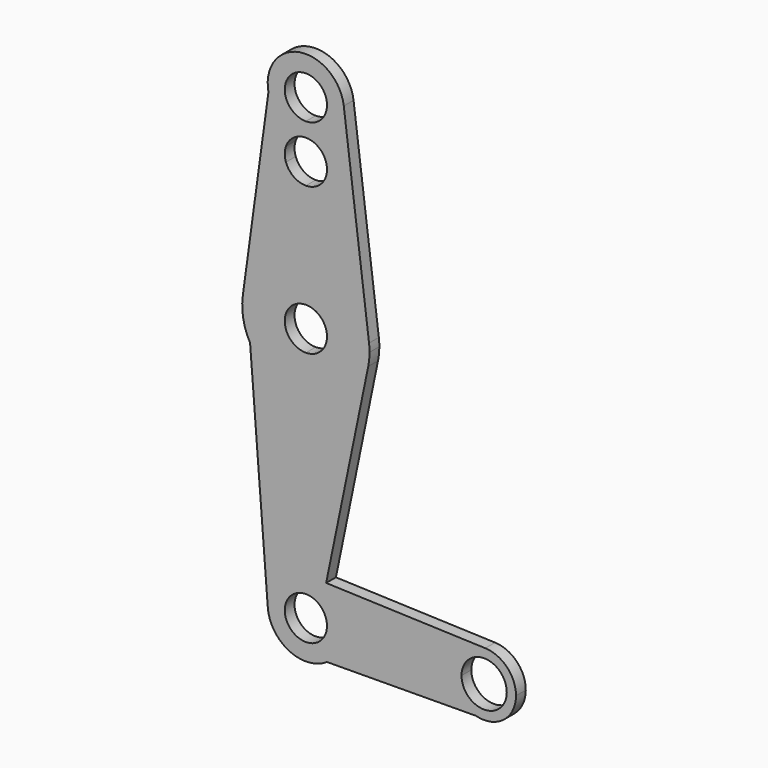
from build123d import *

# Parameters (mm, degrees)
F1_DEPTH = 3.048


with BuildPart() as f1:
    # F0 (on Front) → F1 (new body)
    with BuildSketch(Plane.XZ):
        with BuildLine():
            ThreePointArc((-34.8789583164, 61.9349866176), (-33.852225346, 62.2609772896), (-32.7806348489, 62.3711785475))
            ThreePointArc((-32.7806348489, 62.3711785475), (-31.7090443518, 62.2609772896), (-30.6823113814, 61.9349866176))
            ThreePointArc((-30.6823113814, 61.9349866176), (-25.3404683176, 65.2787554881), (-23.2556348489, 71.2259856826))
            ThreePointArc((-23.2556348489, 71.2259856826), (-23.2743299547, 71.8224689245), (-23.3303418847, 72.4166106826))
            ThreePointArc((-23.3303418847, 72.4166106826), (-34.3203633768, 80.6257123308), (-42.1169034528, 69.3392653651))
            ThreePointArc((-42.1169034528, 69.3392653651), (-39.5918983075, 64.5677340279), (-34.8789583164, 61.9349866176))
        make_face()
        with BuildLine():
            ThreePointArc((-27.5154929942, 71.2259856826), (-29.0576173395, 67.5029681732), (-32.7806348489, 65.9608438279))
            ThreePointArc((-32.7806348489, 65.9608438279), (-36.5036523583, 74.9490031919), (-27.5154929942, 71.2259856826))
        make_face(mode=Mode.SUBTRACT)
        with BuildLine():
            ThreePointArc((-23.2556348489, 71.2259856826), (-25.3404683176, 65.2787554881), (-30.6823113814, 61.9349866176))
            ThreePointArc((-30.6823113814, 61.9349866176), (-28.3778124891, 59.9934012383), (-27.5154929942, 57.1060366929))
            ThreePointArc((-27.5154929942, 57.1060366929), (-29.0576173395, 53.3830191835), (-32.7806348489, 51.8408948382))
            Line((-32.7806348489, 51.8408948382), (-32.7806348489, 36.3009856826))
            ThreePointArc((-32.7806348489, 36.3009856826), (-22.2803093331, 32.3322356826), (-17.0301465752, 22.4103606826))
            Line((-17.0301465752, 22.4103606826), (-23.3303418847, 72.4166106826))
            ThreePointArc((-23.3303418847, 72.4166106826), (-23.2743299547, 71.8224689245), (-23.2556348489, 71.2259856826))
        make_face()
        with BuildLine():
            ThreePointArc((-37.7565250318, 58.8271513425), (-36.6440251628, 60.6831771755), (-34.8789583164, 61.9349866176))
            ThreePointArc((-34.8789583164, 61.9349866176), (-39.5918983075, 64.5677340279), (-42.1169034528, 69.3392653651))
            Line((-42.1169034528, 69.3392653651), (-48.5093579461, 22.5760774787))
            ThreePointArc((-48.5093579461, 22.5760774787), (-43.2181373695, 32.3873470655), (-32.7806348489, 36.3009856826))
            Line((-32.7806348489, 36.3009856826), (-32.7806348489, 51.8408948382))
            ThreePointArc((-32.7806348489, 51.8408948382), (-35.8351238382, 52.8174686609), (-37.7565250318, 55.3849220432))
            ThreePointArc((-37.7565250318, 55.3849220432), (-38.0457767036, 57.1060366929), (-37.7565250318, 58.8271513425))
        make_face()
        with BuildLine():
            ThreePointArc((-17.0301465752, 22.4103606826), (-22.2803093331, 32.3322356826), (-32.7806348489, 36.3009856826))
            Line((-32.7806348489, 36.3009856826), (-32.7806348489, 25.6911275373))
            ThreePointArc((-32.7806348489, 25.6911275373), (-29.0576173395, 24.1490031919), (-27.5154929942, 20.4259856826))
            ThreePointArc((-27.5154929942, 20.4259856826), (-29.0576173395, 16.7029681732), (-32.7806348489, 15.1608438279))
            Line((-32.7806348489, 15.1608438279), (-32.7806348489, 4.5509856826))
            ThreePointArc((-32.7806348489, 4.5509856826), (-22.7514166991, 8.1202793517), (-17.2320851442, 17.2231389673))
            ThreePointArc((-17.2320851442, 17.2231389673), (-16.9874582913, 18.8162654525), (-16.9056348489, 20.4259856826))
            ThreePointArc((-16.9056348489, 20.4259856826), (-16.9367933585, 21.4201244192), (-17.0301465752, 22.4103606826))
        make_face()
        with BuildLine():
            Line((-32.7806348489, 25.6911275373), (-32.7806348489, 36.3009856826))
            ThreePointArc((-32.7806348489, 36.3009856826), (-43.2181373695, 32.3873470655), (-48.5093579461, 22.5760774787))
            ThreePointArc((-48.5093579461, 22.5760774787), (-48.3889761782, 17.5285202473), (-46.6897521382, 12.7740525129))
            ThreePointArc((-46.6897521382, 12.7740525129), (-40.8596566316, 6.7605170834), (-32.7806348489, 4.5509856826))
            Line((-32.7806348489, 4.5509856826), (-32.7806348489, 15.1608438279))
            ThreePointArc((-32.7806348489, 15.1608438279), (-38.0457767036, 20.4259856826), (-32.7806348489, 25.6911275373))
        make_face()
        with BuildLine():
            ThreePointArc((-32.7806348489, 4.5509856826), (-40.8596566316, 6.7605170834), (-46.6897521382, 12.7740525129))
            Line((-46.6897521382, 12.7740525129), (-42.2768038731, -43.8145538939))
            ThreePointArc((-42.2768038731, -43.8145538939), (-39.7727469928, -36.6059394286), (-32.7806348489, -33.5490143174))
            Line((-32.7806348489, -33.5490143174), (-32.7806348489, 4.5509856826))
        make_face()
        with BuildLine():
            ThreePointArc((-17.2320851442, 17.2231389673), (-22.7514166991, 8.1202793517), (-32.7806348489, 4.5509856826))
            Line((-32.7806348489, 4.5509856826), (-32.7806348489, -33.5490143174))
            ThreePointArc((-32.7806348489, -33.5490143174), (-32.6105184292, -33.5505335775), (-32.4404562775, -33.5550908731))
            Line((-32.4404562775, -33.5550908731), (-27.7265968514, -33.7235504657))
            Line((-27.7265968514, -33.7235504657), (-17.2320851442, 17.2231389673))
        make_face()
        with BuildLine():
            ThreePointArc((-32.7806348489, -33.5490143174), (-39.7727469928, -36.6059394286), (-42.2768038731, -43.8145538939))
            ThreePointArc((-42.2768038731, -43.8145538939), (-36.9548961682, -51.6356244136), (-27.5154929942, -51.0115143174))
            ThreePointArc((-27.5154929942, -51.0115143174), (-24.3878968819, -47.5781873178), (-23.2556348489, -43.0740143174))
            Line((-23.2556348489, -43.0740143174), (-27.5154929942, -43.0740143174))
            ThreePointArc((-27.5154929942, -43.0740143174), (-36.5036523583, -46.7970318268), (-32.7806348489, -37.8088724627))
            Line((-32.7806348489, -37.8088724627), (-32.7806348489, -33.5490143174))
        make_face()
        with BuildLine():
            ThreePointArc((-23.2556348489, -43.0740143174), (-24.3878968819, -47.5781873178), (-27.5154929942, -51.0115143174))
            Line((-27.5154929942, -51.0115143174), (9.615199115, -50.7411068659))
            ThreePointArc((9.615199115, -50.7411068659), (5.37218923, -47.9061444553), (3.7318651511, -43.0740143174))
            Line((3.7318651511, -43.0740143174), (-23.2556348489, -43.0740143174))
        make_face()
        with BuildLine():
            Line((11.952847294, -35.1415781138), (-27.7265968514, -33.7235504657))
            Line((-27.7265968514, -33.7235504657), (-27.9604283213, -34.8587094521))
            ThreePointArc((-27.9604283213, -34.8587094521), (-24.515101225, -38.3404555175), (-23.2556348489, -43.0740143174))
            Line((-23.2556348489, -43.0740143174), (3.7318651511, -43.0740143174))
            ThreePointArc((3.7318651511, -43.0740143174), (6.1578423696, -37.3620074127), (11.952847294, -35.1415781138))
        make_face()
        with BuildLine():
            Line((-27.9604283213, -34.8587094521), (-27.7265968514, -33.7235504657))
            Line((-27.7265968514, -33.7235504657), (-32.4404562775, -33.5550908731))
            ThreePointArc((-32.4404562775, -33.5550908731), (-30.1193853411, -33.9283390522), (-27.9604283213, -34.8587094521))
        make_face()
        with BuildLine():
            ThreePointArc((3.7318651511, -43.0740143174), (5.37218923, -47.9061444553), (9.615199115, -50.7411068659))
            ThreePointArc((9.615199115, -50.7411068659), (16.501495289, -49.3711902385), (19.6068651511, -43.0740143174))
            ThreePointArc((19.6068651511, -43.0740143174), (17.3813720558, -37.562491536), (11.952847294, -35.1415781138))
            ThreePointArc((11.952847294, -35.1415781138), (6.1578423696, -37.3620074127), (3.7318651511, -43.0740143174))
        make_face()
        with BuildLine():
            ThreePointArc((17.3096979226, -43.0740143174), (11.6693651511, -48.7143470889), (6.0290323796, -43.0740143174))
            ThreePointArc((6.0290323796, -43.0740143174), (11.6693651511, -37.433681546), (17.3096979226, -43.0740143174))
        make_face(mode=Mode.SUBTRACT)
        with BuildLine():
            Line((-32.7806348489, 25.6911275373), (-32.7806348489, 36.3009856826))
            ThreePointArc((-32.7806348489, 36.3009856826), (-43.2181373695, 32.3873470655), (-48.5093579461, 22.5760774787))
            ThreePointArc((-48.5093579461, 22.5760774787), (-48.3889761782, 17.5285202473), (-46.6897521382, 12.7740525129))
            ThreePointArc((-46.6897521382, 12.7740525129), (-40.8596566316, 6.7605170834), (-32.7806348489, 4.5509856826))
            Line((-32.7806348489, 4.5509856826), (-32.7806348489, 15.1608438279))
            ThreePointArc((-32.7806348489, 15.1608438279), (-38.0457767036, 20.4259856826), (-32.7806348489, 25.6911275373))
        make_face()
        with BuildLine():
            ThreePointArc((-32.4404562775, -33.5550908731), (-32.6105184292, -33.5505335775), (-32.7806348489, -33.5490143174))
            Line((-32.7806348489, -33.5490143174), (-32.7806348489, -37.8088724627))
            ThreePointArc((-32.7806348489, -37.8088724627), (-29.0576173395, -39.3509968081), (-27.5154929942, -43.0740143174))
            Line((-27.5154929942, -43.0740143174), (-23.2556348489, -43.0740143174))
            ThreePointArc((-23.2556348489, -43.0740143174), (-24.515101225, -38.3404555175), (-27.9604283213, -34.8587094521))
            ThreePointArc((-27.9604283213, -34.8587094521), (-30.1193853411, -33.9283390522), (-32.4404562775, -33.5550908731))
        make_face()
    extrude(amount=F1_DEPTH)


solid = f1.part
